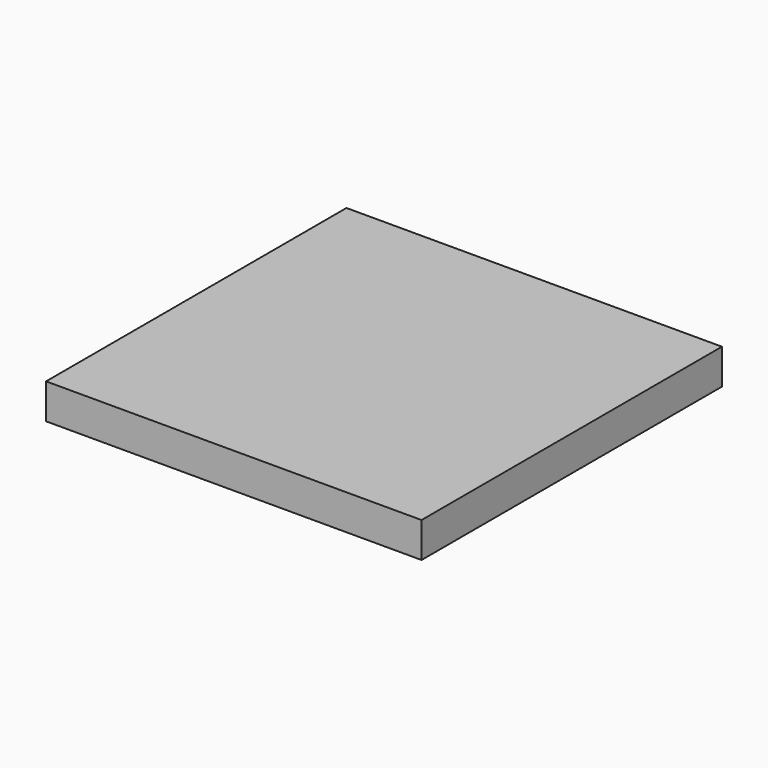
from build123d import *

# Parameters (mm, degrees)
F1_DEPTH = 38.1


with BuildPart() as f1:
    # F0 (on Top) → F1 (new body)
    with BuildSketch(Plane.XY):
        Polygon((-203.2, -203.2), (203.2, -203.2), (0, 0), align=None)
        Polygon((203.2, -203.2), (203.2, 203.2), (0, 0), align=None)
        Polygon((0, 0), (-203.2, 203.2), (-203.2, -203.2), align=None)
        Polygon((0, 0), (203.2, 203.2), (-203.2, 203.2), align=None)
    extrude(amount=F1_DEPTH)


solid = f1.part
